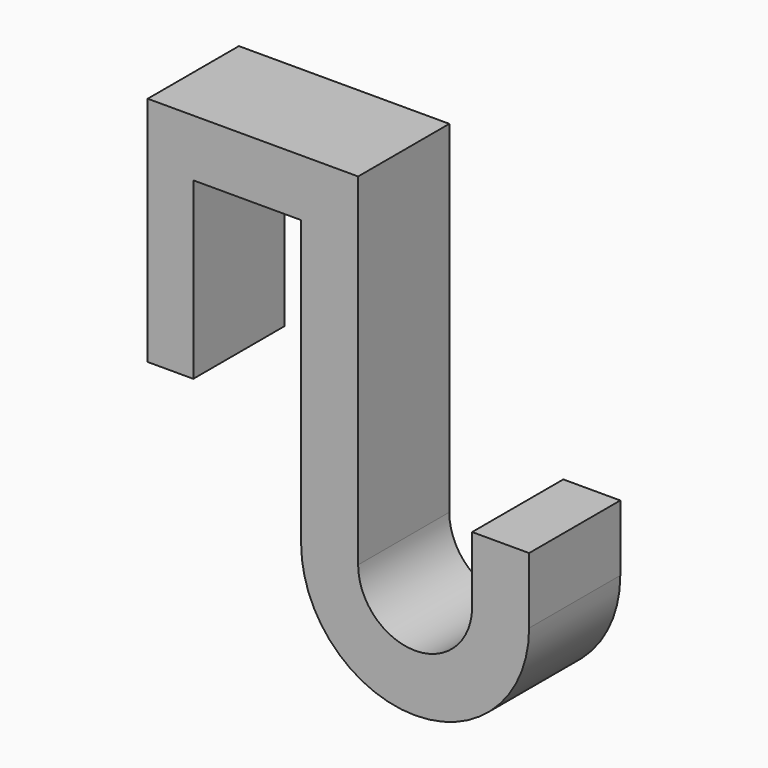
from build123d import *

# Parameters (mm, degrees)
F1_DEPTH = 12.7


with BuildPart() as f1:
    # F0 (on Front) → F1 (new body, symmetric)
    with BuildSketch(Plane.XZ):
        with BuildLine():
            Line((46.891703, 59.056909), (0, 59.056909))
            Line((0, 59.056909), (0, 7.407219))
            Line((0, 7.407219), (10.16, 7.407219))
            Line((10.16, 7.407219), (10.16, 46.356909))
            Line((10.16, 46.356909), (34.191703, 46.356909))
            Line((34.191703, 46.356909), (34.191703, -17.143091))
            ThreePointArc((34.191703, -17.143091), (59.591703, -42.543091), (84.991703, -17.143091))
            Line((84.991703, -17.143091), (84.991703, -2.438421))
            Line((84.991703, -2.438421), (72.291703, -2.438421))
            Line((72.291703, -2.438421), (72.291703, -17.143091))
            ThreePointArc((72.291703, -17.143091), (59.591703, -29.843091), (46.891703, -17.143091))
            Line((46.891703, -17.143091), (46.891703, 59.056909))
        make_face()
    extrude(amount=F1_DEPTH, both=True)


solid = f1.part
